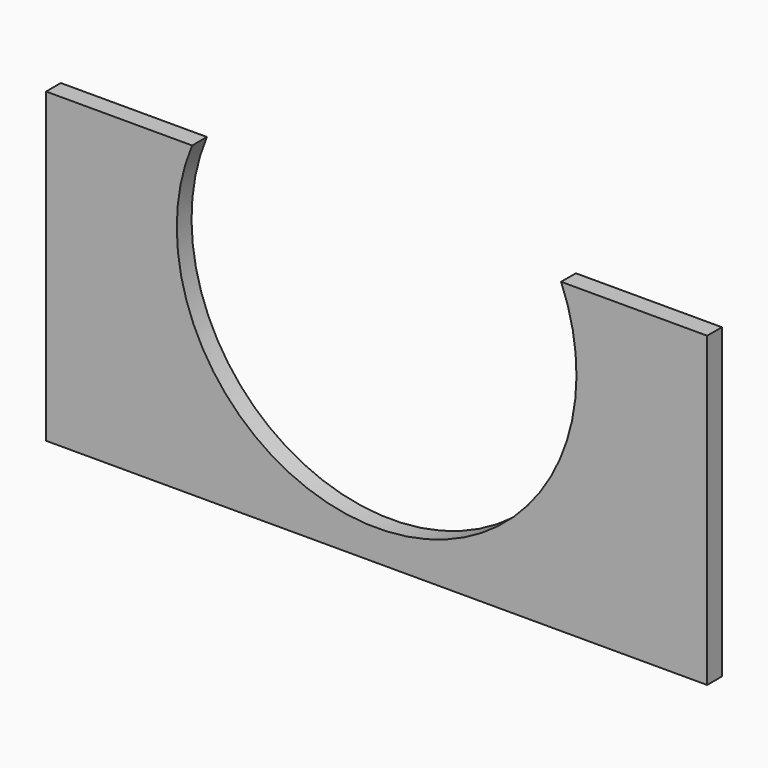
from build123d import *

# Parameters (mm, degrees)
PAD_DEPTH = 6


with BuildPart() as part:
    # Sketch → Pad (new body)
    with BuildSketch(Plane.XZ):
        with BuildLine():
            Line((0, 0), (215, 0))
            Line((215, 0), (215, 100))
            Line((215, 100), (167.5, 100))
            ThreePointArc((47.5, 100), (107.5, 10), (167.5, 100))
            Line((47.5, 100), (0, 100))
            Line((0, 100), (0, 0))
        make_face()
    extrude(amount=PAD_DEPTH)


solid = part.part
